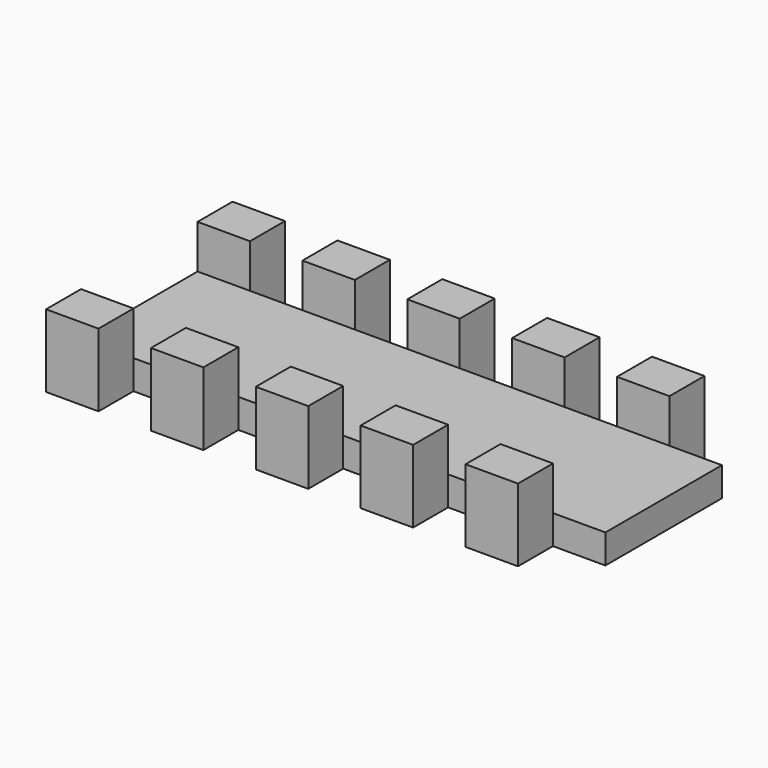
from build123d import *

# Parameters (mm, degrees)
F1_DEPTH = 1
F0_W     = 1.8
F0_H     = 1.5
F2_DEPTH = 2.5


with BuildPart() as f1:
    # F0 (on Top) → F1 (new body)
    with BuildSketch(Plane.XY):
        Polygon((-19.480222, 0.959121), (-21.280222, 0.959121), (-21.280222, -0.040879), (-21.280222, -3.040879), (-21.280222, -4.040879), (-19.480222, -4.040879), (-17.680222, -4.040879), (-15.880222, -4.040879), (-14.080222, -4.040879), (-12.280222, -4.040879), (-10.480222, -4.040879), (-8.680222, -4.040879), (-6.880222, -4.040879), (-5.080222, -4.040879), (-3.280222, -4.040879), (-3.280222, -3.040879), (-3.280222, -0.040879), (-3.280222, 0.959121), (-5.080222, 0.959121), (-6.880222, 0.959121), (-8.680222, 0.959121), (-10.480222, 0.959121), (-12.280222, 0.959121), (-14.080222, 0.959121), (-15.880222, 0.959121), (-17.680222, 0.959121), align=None)
    extrude(amount=F1_DEPTH)

    # F0 (on Top) → F2 (join)
    with BuildSketch(Plane.XY):
        with Locations((-20.380222, 1.709121)):
            Rectangle(F0_W, F0_H)
        with Locations((-16.780222, 1.709121)):
            Rectangle(F0_W, F0_H)
        with Locations((-13.180222, 1.709121)):
            Rectangle(F0_W, F0_H)
        with Locations((-9.580222, 1.709121)):
            Rectangle(F0_W, F0_H)
        with Locations((-5.980222, 1.709121)):
            Rectangle(F0_W, F0_H)
        with Locations((-5.980222, -4.790879)):
            Rectangle(F0_W, F0_H)
        with Locations((-9.580222, -4.790879)):
            Rectangle(F0_W, F0_H)
        with Locations((-13.180222, -4.790879)):
            Rectangle(F0_W, F0_H)
        with Locations((-16.780222, -4.790879)):
            Rectangle(F0_W, F0_H)
        with Locations((-20.380222, -4.790879)):
            Rectangle(F0_W, F0_H)
    extrude(amount=F2_DEPTH)


solid = f1.part
